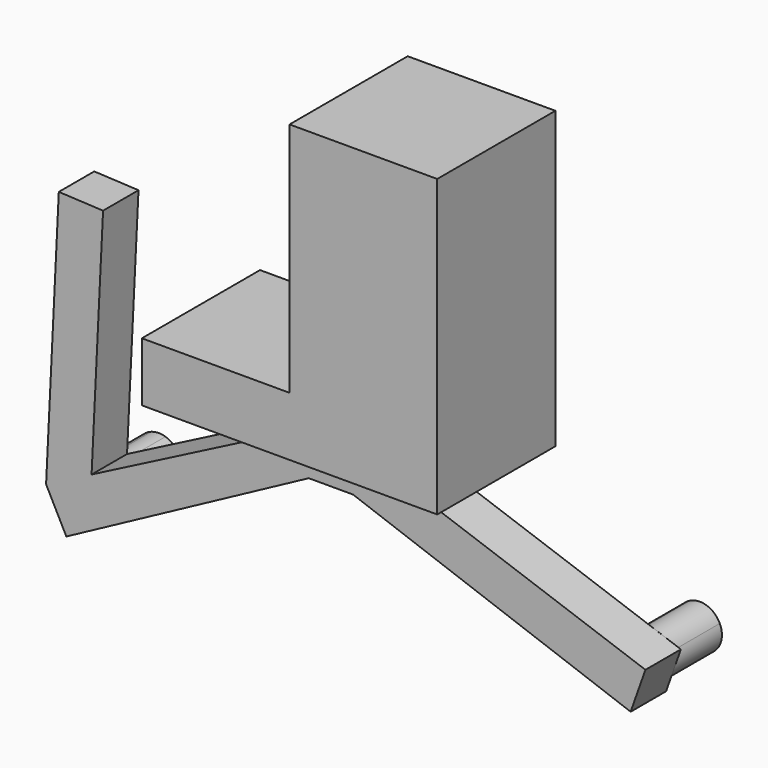
from build123d import *

# Parameters (mm, degrees)
F0_W     = 12.7
F0_H     = 5.08
F1_DEPTH = 12.7
F3_DEPTH = 3.81
F5_DEPTH = 3.81
F7_DEPTH = 3.81
F9_DEPTH = 5.08


with BuildPart() as f1:
    # F0 (on Front) → F1 (new body)
    with BuildSketch(Plane.XZ):
        with Locations((-6.35, 2.54)):
            Rectangle(F0_W, F0_H)
        Polygon((0, 5.08), (0, 0), (12.7, 0), (12.7, 25.4), (0, 25.4), align=None)
    extrude(amount=F1_DEPTH)

    # F2 (on face) → F3 (join)
    with BuildSketch(Plane(origin=(0, 0, 0), x_dir=(1, 0, 0), z_dir=(0, 0, -1))):
        Polygon((-1.905, 8.255), (-1.905, 7.3025), (0, 6.35), (1.905, 7.3025), (1.905, 8.255), align=None)
        Polygon((0, 6.35), (-1.905, 7.3025), (-1.905, 5.3975), align=None)
        Polygon((1.905, 7.3025), (0, 6.35), (1.905, 5.3975), align=None)
        Polygon((1.905, 5.3975), (0, 6.35), (-1.905, 5.3975), (-1.905, 4.445), (1.905, 4.445), align=None)
    extrude(amount=F3_DEPTH)

    # F4 (on face) → F5 (join)
    with BuildSketch(Plane.XZ.offset(8.255)):
        Polygon((1.905, 0), (-1.905, 0), (-24.493341372, -11.6158010512), (-22.7509712143, -15.004052257), (-1.905, -3.81), (1.905, -3.81), (25.7752793361, -12.4915761481), (27.0466815017, -8.8999697479), align=None)
    extrude(amount=-F5_DEPTH)

    # F6 (on face) → F7 (join)
    with BuildSketch(Plane.XZ.offset(8.255)):
        Polygon((-23.3987490657, 10.877285878), (-24.493341372, -11.6158010512), (-20.5809258805, -9.6038852921), (-19.5932523682, 10.6920970944), align=None)
    extrude(amount=-F7_DEPTH)

    # F8 (on face) → F9 (join)
    with BuildSketch(Plane(origin=(0, -4.445, 0), x_dir=(-1, 0, 0), z_dir=(0, 1, 0))):
        with BuildLine():
            ThreePointArc((-22.7051897472, -10.0496184245), (-22.9990213636, -9.0331729319), (-23.7898736732, -8.3302852576))
            Line((-23.7898736732, -8.3302852576), (-24.6101897472, -10.0496184245))
            Line((-24.6101897472, -10.0496184245), (-22.8873458267, -10.8625352872))
            ThreePointArc((-22.8873458267, -10.8625352872), (-22.7512864861, -10.4661561368), (-22.7051897472, -10.0496184245))
        make_face()
        with BuildLine():
            Line((-24.6101897472, -10.0496184245), (-23.7898736732, -8.3302852576))
            ThreePointArc((-23.7898736732, -8.3302852576), (-25.2497495627, -8.2551858561), (-26.3330336677, -9.2367015618))
            Line((-26.3330336677, -9.2367015618), (-24.6101897472, -10.0496184245))
        make_face()
        with BuildLine():
            Line((-22.8873458267, -10.8625352872), (-24.6101897472, -10.0496184245))
            Line((-24.6101897472, -10.0496184245), (-25.4305058212, -11.7689515914))
            ThreePointArc((-25.4305058212, -11.7689515914), (-23.9706299318, -11.8440509929), (-22.8873458267, -10.8625352872))
        make_face()
        with BuildLine():
            Line((-25.4305058212, -11.7689515914), (-24.6101897472, -10.0496184245))
            Line((-24.6101897472, -10.0496184245), (-26.3330336677, -9.2367015618))
            ThreePointArc((-26.3330336677, -9.2367015618), (-26.4046223156, -10.68917824), (-25.4305058212, -11.7689515914))
        make_face()
        with BuildLine():
            ThreePointArc((22.5584327346, -10.6207959991), (21.9501618456, -10.5111051642), (21.338789094, -10.6019286869))
            Line((21.338789094, -10.6019286869), (21.9206959191, -12.4158772658))
            Line((21.9206959191, -12.4158772658), (23.7397587132, -11.8501604187))
            ThreePointArc((23.7397587132, -11.8501604187), (23.4578969896, -11.2906937835), (23.009799723, -10.8529064074))
            Line((23.009799723, -10.8529064074), (22.5584327346, -10.6207959991))
        make_face()
        with BuildLine():
            Line((21.9206959191, -12.4158772658), (21.338789094, -10.6019286869))
            ThreePointArc((21.338789094, -10.6019286869), (20.2304694068, -11.537151292), (20.101633125, -12.9815941129))
            Line((20.101633125, -12.9815941129), (21.9206959191, -12.4158772658))
        make_face()
        with BuildLine():
            Line((23.7397587132, -11.8501604187), (21.9206959191, -12.4158772658))
            Line((21.9206959191, -12.4158772658), (22.5026027442, -14.2298258447))
            ThreePointArc((22.5026027442, -14.2298258447), (23.4597796566, -13.5384841646), (23.8256959191, -12.4158772658))
            ThreePointArc((23.8256959191, -12.4158772658), (23.8040890834, -12.1297738079), (23.7397587132, -11.8501604187))
        make_face()
        with BuildLine():
            Line((22.5026027442, -14.2298258447), (21.9206959191, -12.4158772658))
            Line((21.9206959191, -12.4158772658), (20.101633125, -12.9815941129))
            ThreePointArc((20.101633125, -12.9815941129), (21.0419699453, -14.1061037782), (22.5026027442, -14.2298258447))
        make_face()
        with BuildLine():
            ThreePointArc((23.009799723, -10.8529064074), (22.7918809979, -10.7217516629), (22.5584327346, -10.6207959991))
            Line((22.5584327346, -10.6207959991), (23.009799723, -10.8529064074))
        make_face()
    extrude(amount=F9_DEPTH)


solid = f1.part
